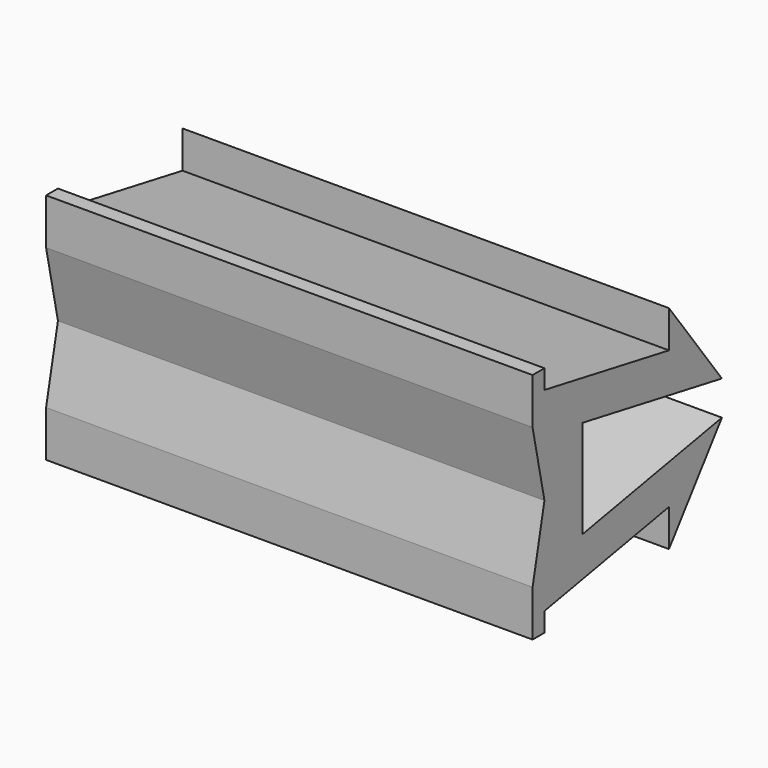
from build123d import *

# Parameters (mm, degrees)
F1_DEPTH = 25


with BuildPart() as f1:
    # F0 (on Right) → F1 (new body)
    with BuildSketch(Plane.YZ):
        Polygon((8, 18.586482), (0, 20.047338), (0, 21.030821), (-0.761622, 21.030821), (-0.761622, 18.66292), (0, 15.047338), (-0.761622, 11.431756), (-0.761622, 9.063855), (0, 9.063855), (0, 10.047338), (8, 11.508194), (8, 9.596173), (11.399993, 14.162128), (2.450611, 12.527909), (2.450611, 15.047338), (2.450611, 17.566768), (11.399993, 15.932548), (8, 20.498503), align=None)
    extrude(amount=F1_DEPTH)


solid = f1.part
